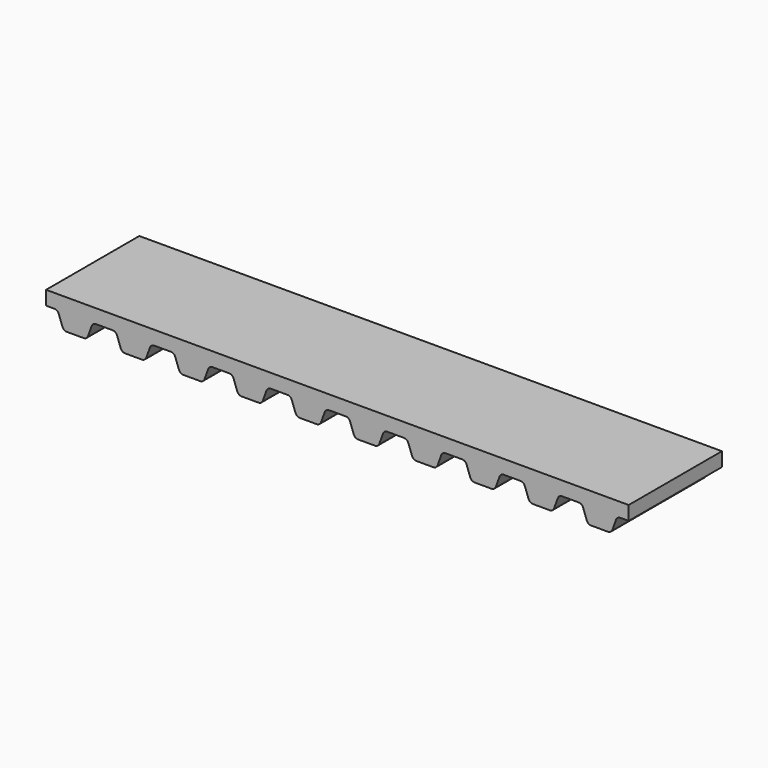
from build123d import *

# Parameters (mm, degrees)
F1_DEPTH = 5


with BuildPart() as f1:
    # F0 (on Front) → F1 (new body)
    with BuildSketch(Plane.XZ):
        with BuildLine():
            Line((-19.821928, 19.918123), (-21.071928, 19.918123))
            Line((-21.071928, 19.918123), (-22.321928, 19.918123))
            Line((-22.321928, 19.918123), (-22.321928, 19.318123))
            Line((-22.321928, 19.318123), (-21.966749, 19.318123))
            ThreePointArc((-21.966749, 19.318123), (-21.852034, 19.281953), (-21.77881, 19.186527))
            Line((-21.77881, 19.186527), (-21.619825, 18.749719))
            ThreePointArc((-21.619825, 18.749719), (-21.546602, 18.654293), (-21.431887, 18.618123))
            Line((-21.431887, 18.618123), (-21.071928, 18.618123))
            Line((-21.071928, 18.618123), (-20.71197, 18.618123))
            ThreePointArc((-20.71197, 18.618123), (-20.597254, 18.654293), (-20.524031, 18.749719))
            Line((-20.524031, 18.749719), (-20.365046, 19.186527))
            ThreePointArc((-20.365046, 19.186527), (-20.291823, 19.281953), (-20.177108, 19.318123))
            Line((-20.177108, 19.318123), (-19.821928, 19.318123))
            Line((-19.821928, 19.318123), (-19.466749, 19.318123))
            ThreePointArc((-19.466749, 19.318123), (-19.352034, 19.281953), (-19.27881, 19.186527))
            Line((-19.27881, 19.186527), (-19.119825, 18.749719))
            ThreePointArc((-19.119825, 18.749719), (-19.046602, 18.654293), (-18.931887, 18.618123))
            Line((-18.931887, 18.618123), (-18.571928, 18.618123))
            Line((-18.571928, 18.618123), (-18.21197, 18.618123))
            ThreePointArc((-18.21197, 18.618123), (-18.097254, 18.654293), (-18.024031, 18.749719))
            Line((-18.024031, 18.749719), (-17.865046, 19.186527))
            ThreePointArc((-17.865046, 19.186527), (-17.791823, 19.281953), (-17.677108, 19.318123))
            Line((-17.677108, 19.318123), (-17.321928, 19.318123))
            Line((-17.321928, 19.318123), (-16.966749, 19.318123))
            ThreePointArc((-16.966749, 19.318123), (-16.852034, 19.281953), (-16.77881, 19.186527))
            Line((-16.77881, 19.186527), (-16.619825, 18.749719))
            ThreePointArc((-16.619825, 18.749719), (-16.546602, 18.654293), (-16.431887, 18.618123))
            Line((-16.431887, 18.618123), (-16.071928, 18.618123))
            Line((-16.071928, 18.618123), (-15.71197, 18.618123))
            ThreePointArc((-15.71197, 18.618123), (-15.597254, 18.654293), (-15.524031, 18.749719))
            Line((-15.524031, 18.749719), (-15.365046, 19.186527))
            ThreePointArc((-15.365046, 19.186527), (-15.291823, 19.281953), (-15.177108, 19.318123))
            Line((-15.177108, 19.318123), (-14.821928, 19.318123))
            Line((-14.821928, 19.318123), (-14.466749, 19.318123))
            ThreePointArc((-14.466749, 19.318123), (-14.352034, 19.281953), (-14.27881, 19.186527))
            Line((-14.27881, 19.186527), (-14.119825, 18.749719))
            ThreePointArc((-14.119825, 18.749719), (-14.046602, 18.654293), (-13.931887, 18.618123))
            Line((-13.931887, 18.618123), (-13.571928, 18.618123))
            Line((-13.571928, 18.618123), (-13.21197, 18.618123))
            ThreePointArc((-13.21197, 18.618123), (-13.097254, 18.654293), (-13.024031, 18.749719))
            Line((-13.024031, 18.749719), (-12.865046, 19.186527))
            ThreePointArc((-12.865046, 19.186527), (-12.791823, 19.281953), (-12.677108, 19.318123))
            Line((-12.677108, 19.318123), (-12.321928, 19.318123))
            Line((-12.321928, 19.318123), (-11.966749, 19.318123))
            ThreePointArc((-11.966749, 19.318123), (-11.852034, 19.281953), (-11.77881, 19.186527))
            Line((-11.77881, 19.186527), (-11.619825, 18.749719))
            ThreePointArc((-11.619825, 18.749719), (-11.546602, 18.654293), (-11.431887, 18.618123))
            Line((-11.431887, 18.618123), (-11.071928, 18.618123))
            Line((-11.071928, 18.618123), (-10.71197, 18.618123))
            ThreePointArc((-10.71197, 18.618123), (-10.597254, 18.654293), (-10.524031, 18.749719))
            Line((-10.524031, 18.749719), (-10.365046, 19.186527))
            ThreePointArc((-10.365046, 19.186527), (-10.291823, 19.281953), (-10.177108, 19.318123))
            Line((-10.177108, 19.318123), (-9.821928, 19.318123))
            Line((-9.821928, 19.318123), (-9.466749, 19.318123))
            ThreePointArc((-9.466749, 19.318123), (-9.352034, 19.281953), (-9.27881, 19.186527))
            Line((-9.27881, 19.186527), (-9.119825, 18.749719))
            ThreePointArc((-9.119825, 18.749719), (-9.046602, 18.654293), (-8.931887, 18.618123))
            Line((-8.931887, 18.618123), (-8.571928, 18.618123))
            Line((-8.571928, 18.618123), (-8.21197, 18.618123))
            ThreePointArc((-8.21197, 18.618123), (-8.097254, 18.654293), (-8.024031, 18.749719))
            Line((-8.024031, 18.749719), (-7.865046, 19.186527))
            ThreePointArc((-7.865046, 19.186527), (-7.791823, 19.281953), (-7.677108, 19.318123))
            Line((-7.677108, 19.318123), (-7.321928, 19.318123))
            Line((-7.321928, 19.318123), (-6.966749, 19.318123))
            ThreePointArc((-6.966749, 19.318123), (-6.852034, 19.281953), (-6.77881, 19.186527))
            Line((-6.77881, 19.186527), (-6.619825, 18.749719))
            ThreePointArc((-6.619825, 18.749719), (-6.546602, 18.654293), (-6.431887, 18.618123))
            Line((-6.431887, 18.618123), (-6.071928, 18.618123))
            Line((-6.071928, 18.618123), (-5.71197, 18.618123))
            ThreePointArc((-5.71197, 18.618123), (-5.597254, 18.654293), (-5.524031, 18.749719))
            Line((-5.524031, 18.749719), (-5.365046, 19.186527))
            ThreePointArc((-5.365046, 19.186527), (-5.291823, 19.281953), (-5.177108, 19.318123))
            Line((-5.177108, 19.318123), (-4.821928, 19.318123))
            Line((-4.821928, 19.318123), (-4.466749, 19.318123))
            ThreePointArc((-4.466749, 19.318123), (-4.352034, 19.281953), (-4.27881, 19.186527))
            Line((-4.27881, 19.186527), (-4.119825, 18.749719))
            ThreePointArc((-4.119825, 18.749719), (-4.046602, 18.654293), (-3.931887, 18.618123))
            Line((-3.931887, 18.618123), (-3.571928, 18.618123))
            Line((-3.571928, 18.618123), (-3.21197, 18.618123))
            ThreePointArc((-3.21197, 18.618123), (-3.097254, 18.654293), (-3.024031, 18.749719))
            Line((-3.024031, 18.749719), (-2.865046, 19.186527))
            ThreePointArc((-2.865046, 19.186527), (-2.791823, 19.281953), (-2.677108, 19.318123))
            Line((-2.677108, 19.318123), (-2.321928, 19.318123))
            Line((-2.321928, 19.318123), (-1.966749, 19.318123))
            ThreePointArc((-1.966749, 19.318123), (-1.852034, 19.281953), (-1.77881, 19.186527))
            Line((-1.77881, 19.186527), (-1.619825, 18.749719))
            ThreePointArc((-1.619825, 18.749719), (-1.546602, 18.654293), (-1.431887, 18.618123))
            Line((-1.431887, 18.618123), (-1.071928, 18.618123))
            Line((-1.071928, 18.618123), (-0.71197, 18.618123))
            ThreePointArc((-0.71197, 18.618123), (-0.597254, 18.654293), (-0.524031, 18.749719))
            Line((-0.524031, 18.749719), (-0.365046, 19.186527))
            ThreePointArc((-0.365046, 19.186527), (-0.291823, 19.281953), (-0.177108, 19.318123))
            Line((-0.177108, 19.318123), (0.178072, 19.318123))
            Line((0.178072, 19.318123), (0.533251, 19.318123))
            ThreePointArc((0.533251, 19.318123), (0.647966, 19.281953), (0.72119, 19.186527))
            Line((0.72119, 19.186527), (0.880175, 18.749719))
            ThreePointArc((0.880175, 18.749719), (0.953398, 18.654293), (1.068113, 18.618123))
            Line((1.068113, 18.618123), (1.428072, 18.618123))
            Line((1.428072, 18.618123), (1.78803, 18.618123))
            ThreePointArc((1.78803, 18.618123), (1.902746, 18.654293), (1.975969, 18.749719))
            Line((1.975969, 18.749719), (2.134954, 19.186527))
            ThreePointArc((2.134954, 19.186527), (2.208177, 19.281953), (2.322892, 19.318123))
            Line((2.322892, 19.318123), (2.678072, 19.318123))
            Line((2.678072, 19.318123), (2.678072, 19.918123))
            Line((2.678072, 19.918123), (1.428072, 19.918123))
            Line((1.428072, 19.918123), (0.178072, 19.918123))
            Line((0.178072, 19.918123), (-1.071928, 19.918123))
            Line((-1.071928, 19.918123), (-2.321928, 19.918123))
            Line((-2.321928, 19.918123), (-3.571928, 19.918123))
            Line((-3.571928, 19.918123), (-4.821928, 19.918123))
            Line((-4.821928, 19.918123), (-6.071928, 19.918123))
            Line((-6.071928, 19.918123), (-7.321928, 19.918123))
            Line((-7.321928, 19.918123), (-8.571928, 19.918123))
            Line((-8.571928, 19.918123), (-9.821928, 19.918123))
            Line((-9.821928, 19.918123), (-11.071928, 19.918123))
            Line((-11.071928, 19.918123), (-12.321928, 19.918123))
            Line((-12.321928, 19.918123), (-13.571928, 19.918123))
            Line((-13.571928, 19.918123), (-14.821928, 19.918123))
            Line((-14.821928, 19.918123), (-16.071928, 19.918123))
            Line((-16.071928, 19.918123), (-17.321928, 19.918123))
            Line((-17.321928, 19.918123), (-18.571928, 19.918123))
            Line((-18.571928, 19.918123), (-19.821928, 19.918123))
        make_face()
    extrude(amount=F1_DEPTH)


solid = f1.part
